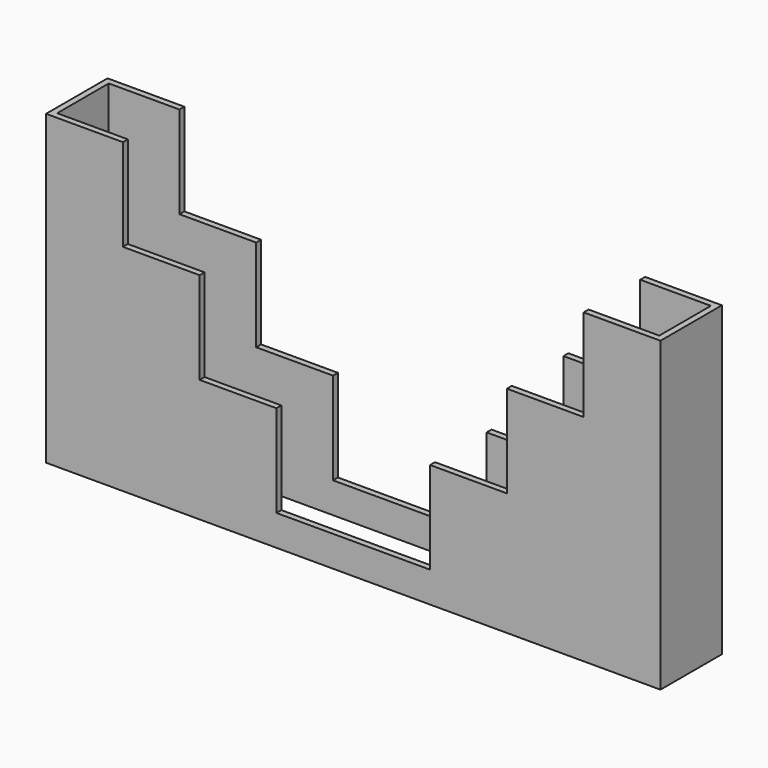
from build123d import *

# Parameters (mm, degrees)
F0_W     = 50.8
F0_H     = 6.35
F1_DEPTH = 25.4
F2_T     = -0.508
F3_W     = 6.35
F3_H     = 7.62
F3_W_2   = 12.7
F4_DEPTH = 13.208


with BuildPart() as f1:
    # F0 (on Top) → F1 (new body)
    with BuildSketch(Plane.XY):
        Rectangle(F0_W, F0_H)
    extrude(amount=F1_DEPTH)

    # F2
    f2_openings = [f1.faces().sort_by_distance(p)[0] for p in [
        (0, 0, 25.4),
        (0, 0, 0),
    ]]
    offset(amount=F2_T, openings=f2_openings)

    # F3 (on face) → F4 (cut)
    with BuildSketch(Plane.XZ.offset(3.175)):
        with Locations((-15.875, 21.59)):
            Rectangle(F3_W, F3_H)
        with Locations((-9.525, 21.59)):
            Rectangle(F3_W, F3_H)
        with Locations((0, 21.59)):
            Rectangle(F3_W_2, F3_H)
        with Locations((-9.525, 13.97)):
            Rectangle(F3_W, F3_H)
        with Locations((9.525, 21.59)):
            Rectangle(F3_W, F3_H)
        with Locations((0, 13.97)):
            Rectangle(F3_W_2, F3_H)
        with Locations((15.875, 21.59)):
            Rectangle(F3_W, F3_H)
        with Locations((9.525, 13.97)):
            Rectangle(F3_W, F3_H)
        with Locations((0, 6.35)):
            Rectangle(F3_W_2, F3_H)
    extrude(amount=-F4_DEPTH, mode=Mode.SUBTRACT)


solid = f1.part
